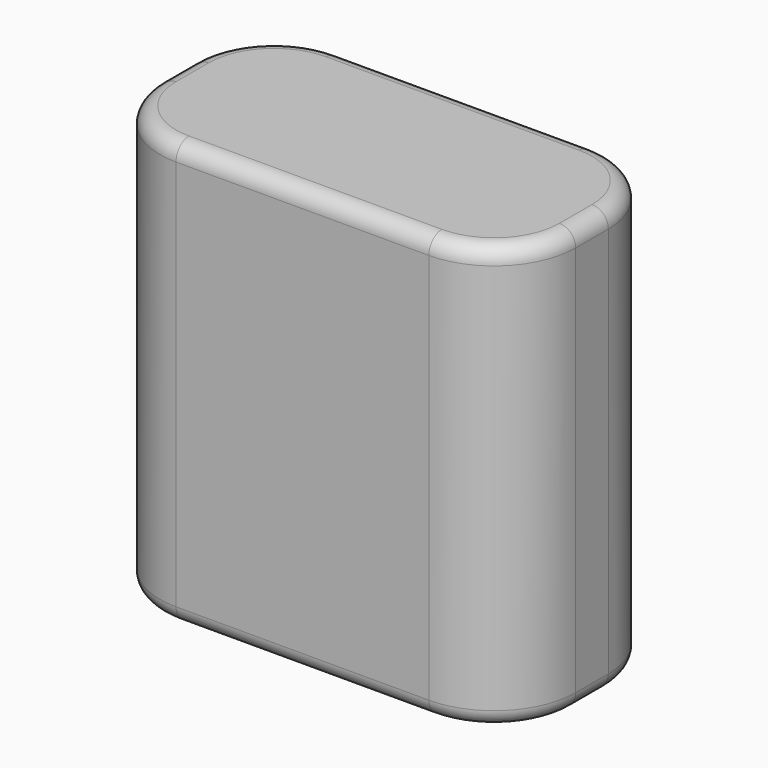
from build123d import *

# Parameters (mm, degrees)
F1_W     = 25.5
F1_H     = 12.5
F2_DEPTH = 26
F3_DEPTH = 24
F4_R     = 5
F5_R     = 1
F7_DEPTH = 1


with BuildPart() as f2:
    # F1 (on Top) → F2 (new body)
    with BuildSketch(Plane.XY):
        with Locations((0, -1.381356)):
            Rectangle(F1_W, F1_H)
    extrude(amount=F2_DEPTH)

    # F0 (on Top) → F3 (cut)
    with BuildSketch(Plane.XY):
        with BuildLine():
            Line((-5.25, -5.478824), (5.25, -5.478824))
            ThreePointArc((5.25, -5.478824), (8.078427, -4.307251), (9.25, -1.478824))
            Line((9.25, -1.478824), (9.25, -1.178824))
            ThreePointArc((9.25, -1.178824), (8.078427, 1.649603), (5.25, 2.821176))
            Line((5.25, 2.821176), (-5.25, 2.821176))
            ThreePointArc((-5.25, 2.821176), (-8.078427, 1.649603), (-9.25, -1.178824))
            Line((-9.25, -1.178824), (-9.25, -1.478824))
            ThreePointArc((-9.25, -1.478824), (-8.078427, -4.307251), (-5.25, -5.478824))
        make_face()
    extrude(amount=F3_DEPTH, mode=Mode.SUBTRACT)

    # F4
    f4_edges = [f2.edges().sort_by_distance(p)[0] for p in [
        (12.75, -7.631356, 13),
        (12.75, 4.868644, 13),
        (-12.75, -7.631356, 13),
        (-12.75, 4.868644, 13),
    ]]
    fillet(f4_edges, radius=F4_R)

    # F5
    f5_edges = [f2.edges().sort_by_distance(p)[0] for p in [
        (0, 4.868644, 0),
        (0, 4.868644, 26),
    ]]
    fillet(f5_edges, radius=F5_R)

    # F6 (on face) → F7 (join)
    with BuildSketch(Plane.XY):
        Polygon((-2.237371, -4.617726), (-3.124978, -5.505333), (3.585098, -5.505333), (2.697491, -4.617726), align=None)
    extrude(amount=F7_DEPTH)


solid = f2.part
